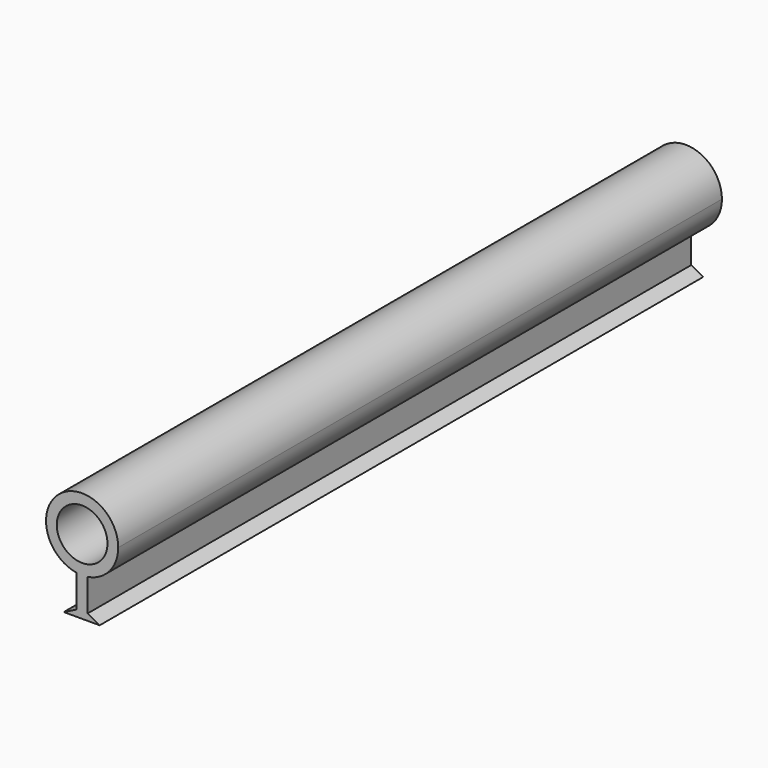
from build123d import *

# Parameters (mm, degrees)
F0_R     = 2.35
F1_DEPTH = 70


with BuildPart() as f1:
    # F0 (on Front) → F1 (new body)
    with BuildSketch(Plane.XZ):
        with BuildLine():
            ThreePointArc((0.5, -3.312476), (0, -3.35), (-0.5, -3.312476))
            Line((-0.5, -3.312476), (-0.5, -6.312476))
            Line((-0.5, -6.312476), (0.5, -6.312476))
            Line((0.5, -6.312476), (0.5, -3.312476))
        make_face()
        with BuildLine():
            Line((0.5, -3.312476), (-0.5, -3.312476))
            ThreePointArc((-0.5, -3.312476), (0, -3.35), (0.5, -3.312476))
        make_face()
        with BuildLine():
            ThreePointArc((0.5, -3.312476), (2.539439, -2.184891), (3.35, 0))
            ThreePointArc((3.35, 0), (-2.184891, 2.539439), (-0.5, -3.312476))
            Line((-0.5, -3.312476), (0.5, -3.312476))
        make_face()
        Circle(F0_R, mode=Mode.SUBTRACT)
        Polygon((0.5, -6.312476), (-0.5, -6.312476), (-1.705153, -6.910453), (1.628228, -6.910453), align=None)
    extrude(amount=F1_DEPTH)


solid = f1.part
